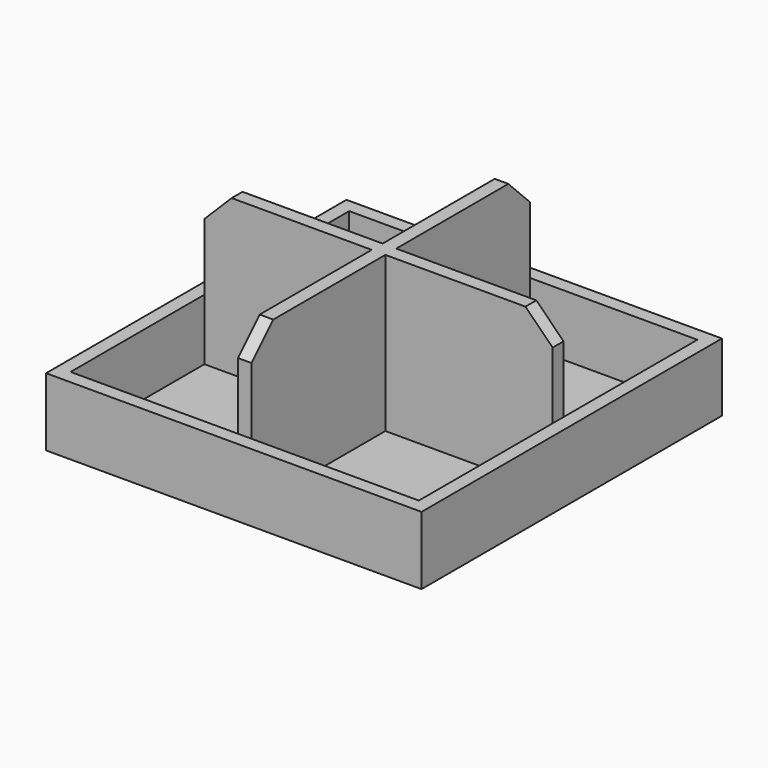
from build123d import *

# Parameters (mm, degrees)
F1_DEPTH = 11.9
F0_W     = 27.6
F0_H     = 27.6
F2_DEPTH = 5
F3_W     = 27
F3_H     = 27
F4_DEPTH = 0.5
F5_SIZE  = 2


with BuildPart() as f1:
    # F0 (on Top) → F1 (new body)
    with BuildSketch(Plane.XY):
        Polygon((0.5, 13.1), (-0.5, 13.1), (-0.5, 0.8), (-12.8, 0.8), (-12.8, -0.2), (-0.5, -0.2), (-0.5, -12.5), (0.5, -12.5), (0.5, -0.2), (12.8, -0.2), (12.8, 0.8), (0.5, 0.8), align=None)
    extrude(amount=F1_DEPTH)

    # F0 (on Top) → F2 (join)
    with BuildSketch(Plane.XY):
        with Locations((0, 0.3)):
            Rectangle(F0_W, F0_H)
        Polygon((-12.8, 0.8), (-12.8, 13.1), (-0.5, 13.1), (0.5, 13.1), (12.8, 13.1), (12.8, 0.8), (12.8, -0.2), (12.8, -12.5), (0.5, -12.5), (-0.5, -12.5), (-12.8, -12.5), (-12.8, -0.2), align=None, mode=Mode.SUBTRACT)
    extrude(amount=F2_DEPTH)

    # F3 (on Top) → F4 (join)
    with BuildSketch(Plane.XY):
        Rectangle(F3_W, F3_H)
    extrude(amount=F4_DEPTH)

    # F5
    f5_edges = [f1.edges().sort_by_distance(p)[0] for p in [
        (0, 13.1, 11.9),
        (-12.8, 0.3, 11.9),
        (0, -12.5, 11.9),
        (12.8, 0.3, 11.9),
    ]]
    chamfer(f5_edges, length=F5_SIZE)


solid = f1.part
